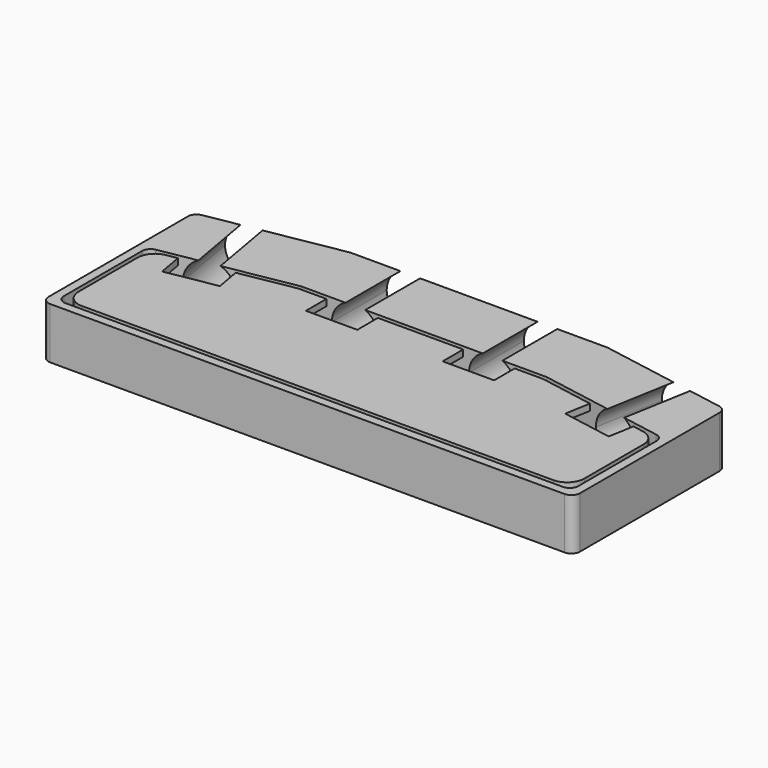
from build123d import *

# Parameters (mm, degrees)
F1_DEPTH  = 1
F2_DEPTH  = 6
F4_DEPTH  = 8
F6_DEPTH  = 8
F8_DEPTH  = 8
F9_START  = -8
F9_DEPTH  = 7
F10_START = -8
F10_DEPTH = 7
F11_START = -8
F11_DEPTH = 7
F12_START = -8
F12_DEPTH = 7
F14_START = -8
F14_DEPTH = 7
F15_START = -8
F15_DEPTH = 7
F16_R     = 1
F18_W     = 6
F18_H     = 2.5
F18_W_2   = 4
F18_H_2   = 4
F19_DEPTH = 0.75
F20_DEPTH = 4.5
F21_R     = 1


with BuildPart() as f1:
    # F0 (on Top) → F1 (new body)
    with BuildSketch(Plane.XY):
        Polygon((-31, 9.6787683087), (-31, 1.5553554136), (-30, 1.7316823943), (-14.3000906918, 4.5), (0, 4.5), (14.3000906918, 4.5), (30, 1.7316823943), (31, 1.5553554136), (31, 9.6787683087), (15, 12.5), (0, 12.5), (-15, 12.5), align=None)
        Polygon((-31, 1.5553554136), (-31, -12.5), (31, -12.5), (31, 1.5553554136), (30, 1.7316823943), (30, -11.5), (-30, -11.5), (-30, 1.7316823943), align=None)
        Polygon((-14.3000906918, 4.5), (-30, 1.7316823943), (-30, -11.5), (30, -11.5), (30, 1.7316823943), (14.3000906918, 4.5), (0, 4.5), align=None)
    extrude(amount=F1_DEPTH)

    # F0 (on Top) → F2 (join)
    with BuildSketch(Plane.XY):
        Polygon((-31, 9.6787683087), (-31, 1.5553554136), (-30, 1.7316823943), (-14.3000906918, 4.5), (0, 4.5), (14.3000906918, 4.5), (30, 1.7316823943), (31, 1.5553554136), (31, 9.6787683087), (15, 12.5), (0, 12.5), (-15, 12.5), align=None)
        Polygon((-31, 1.5553554136), (-31, -12.5), (31, -12.5), (31, 1.5553554136), (30, 1.7316823943), (30, -11.5), (-30, -11.5), (-30, 1.7316823943), align=None)
    extrude(amount=F2_DEPTH)

    # F3 (on face) → F4 (cut)
    with BuildSketch(Plane(origin=(0, 12.5, 0), x_dir=(-1, 0, 0), z_dir=(0, 1, 0))):
        with BuildLine():
            ThreePointArc((-9.1456439237, 6), (-9.4852574204, 1.185586382), (-5.25, 3.5))
            ThreePointArc((-5.25, 3.5), (-5.685586382, 4.9852574204), (-6.8543560763, 6))
            Line((-6.8543560763, 6), (-9.1456439237, 6))
        make_face()
        with BuildLine():
            Line((9.1456439237, 6), (6.8543560763, 6))
            ThreePointArc((6.8543560763, 6), (6.5147425796, 1.185586382), (10.75, 3.5))
            ThreePointArc((10.75, 3.5), (10.314413618, 4.9852574204), (9.1456439237, 6))
        make_face()
        with BuildLine():
            ThreePointArc((9.1456439237, 6), (8, 6.25), (6.8543560763, 6))
            Line((6.8543560763, 6), (9.1456439237, 6))
        make_face()
    extrude(amount=-F4_DEPTH, mode=Mode.SUBTRACT)

    # F5 (on face) → F6 (cut)
    with BuildSketch(Plane(origin=(2.5899312399, 14.6882299549, 0), x_dir=(-0.984807753, 0.1736481777, 0), z_dir=(0.1736481777, 0.984807753, 0))):
        with BuildLine():
            Line((-23.9939837883, 6), (-21.7026959408, 6))
            ThreePointArc((-21.7026959408, 6), (-22.8483398645, 6.25), (-23.9939837883, 6))
        make_face()
        with BuildLine():
            ThreePointArc((-23.9939837883, 6), (-24.3335972849, 1.185586382), (-20.0983398645, 3.5))
            ThreePointArc((-20.0983398645, 3.5), (-20.5339262465, 4.9852574204), (-21.7026959408, 6))
            Line((-21.7026959408, 6), (-23.9939837883, 6))
        make_face()
    extrude(amount=-F6_DEPTH, mode=Mode.SUBTRACT)

    # F7 (on face) → F8 (cut)
    with BuildSketch(Plane(origin=(-2.5899312399, 14.6882299549, 0), x_dir=(-0.984807753, -0.1736481777, 0), z_dir=(-0.1736481777, 0.984807753, 0))):
        with BuildLine():
            ThreePointArc((21.7026959408, 6), (21.3630824441, 1.185586382), (25.5983398645, 3.5))
            ThreePointArc((25.5983398645, 3.5), (25.1627534825, 4.9852574204), (23.9939837883, 6))
            Line((23.9939837883, 6), (21.7026959408, 6))
        make_face()
    extrude(amount=-F8_DEPTH, mode=Mode.SUBTRACT)

    # F5 (on face) → F12 (cut)
    with BuildSketch(Plane(origin=(2.5899312399, 14.6882299549, 0), x_dir=(-0.984807753, 0.1736481777, 0), z_dir=(0.1736481777, 0.984807753, 0)).offset(F12_START)):
        with BuildLine():
            ThreePointArc((-21.7026959408, 6), (-20.5339262465, 4.9852574204), (-20.0983398645, 3.5))
            ThreePointArc((-20.0983398645, 3.5), (-24.3335972849, 1.185586382), (-23.9939837883, 6))
            Line((-23.9939837883, 6), (-25.2258385501, 6))
            ThreePointArc((-25.2258385501, 6), (-24.2085107241, 0.3294424414), (-19.3983398645, 3.5))
            ThreePointArc((-19.3983398645, 3.5), (-19.6777823059, 4.8601708596), (-20.4708411789, 6))
            Line((-20.4708411789, 6), (-21.7026959408, 6))
        make_face()
        with BuildLine():
            ThreePointArc((-23.9939837883, 6), (-24.3335972849, 1.185586382), (-20.0983398645, 3.5))
            ThreePointArc((-20.0983398645, 3.5), (-20.5339262465, 4.9852574204), (-21.7026959408, 6))
            Line((-21.7026959408, 6), (-23.9939837883, 6))
        make_face()
    extrude(amount=-F12_DEPTH, mode=Mode.SUBTRACT)

    # F3 (on face) → F14 (cut)
    with BuildSketch(Plane(origin=(0, 12.5, 0), x_dir=(-1, 0, 0), z_dir=(0, 1, 0)).offset(F14_START)):
        with BuildLine():
            ThreePointArc((-6.8543560763, 6), (-5.685586382, 4.9852574204), (-5.25, 3.5))
            ThreePointArc((-5.25, 3.5), (-9.4852574204, 1.185586382), (-9.1456439237, 6))
            Line((-9.1456439237, 6), (-10.3774986856, 6))
            ThreePointArc((-10.3774986856, 6), (-9.3601708596, 0.3294424414), (-4.55, 3.5))
            ThreePointArc((-4.55, 3.5), (-4.8294424414, 4.8601708596), (-5.6225013144, 6))
            Line((-5.6225013144, 6), (-6.8543560763, 6))
        make_face()
        with BuildLine():
            ThreePointArc((-9.1456439237, 6), (-9.4852574204, 1.185586382), (-5.25, 3.5))
            ThreePointArc((-5.25, 3.5), (-5.685586382, 4.9852574204), (-6.8543560763, 6))
            Line((-6.8543560763, 6), (-9.1456439237, 6))
        make_face()
        with BuildLine():
            Line((6.8543560763, 6), (5.6225013144, 6))
            ThreePointArc((5.6225013144, 6), (6.6398291404, 0.3294424414), (11.45, 3.5))
            ThreePointArc((11.45, 3.5), (11.1705575586, 4.8601708596), (10.3774986856, 6))
            Line((10.3774986856, 6), (9.1456439237, 6))
            ThreePointArc((9.1456439237, 6), (10.314413618, 4.9852574204), (10.75, 3.5))
            ThreePointArc((10.75, 3.5), (6.5147425796, 1.185586382), (6.8543560763, 6))
        make_face()
        with BuildLine():
            Line((9.1456439237, 6), (6.8543560763, 6))
            ThreePointArc((6.8543560763, 6), (6.5147425796, 1.185586382), (10.75, 3.5))
            ThreePointArc((10.75, 3.5), (10.314413618, 4.9852574204), (9.1456439237, 6))
        make_face()
    extrude(amount=-F14_DEPTH, mode=Mode.SUBTRACT)

    # F7 (on face) → F15 (cut)
    with BuildSketch(Plane(origin=(-2.5899312399, 14.6882299549, 0), x_dir=(-0.984807753, -0.1736481777, 0), z_dir=(-0.1736481777, 0.984807753, 0)).offset(F15_START)):
        with BuildLine():
            ThreePointArc((23.9939837883, 6), (25.1627534825, 4.9852574204), (25.5983398645, 3.5))
            ThreePointArc((25.5983398645, 3.5), (21.3630824441, 1.185586382), (21.7026959408, 6))
            Line((21.7026959408, 6), (20.4708411789, 6))
            ThreePointArc((20.4708411789, 6), (21.4881690049, 0.3294424414), (26.2983398645, 3.5))
            ThreePointArc((26.2983398645, 3.5), (26.0188974232, 4.8601708596), (25.2258385501, 6))
            Line((25.2258385501, 6), (23.9939837883, 6))
        make_face()
        with BuildLine():
            ThreePointArc((21.7026959408, 6), (21.3630824441, 1.185586382), (25.5983398645, 3.5))
            ThreePointArc((25.5983398645, 3.5), (25.1627534825, 4.9852574204), (23.9939837883, 6))
            Line((23.9939837883, 6), (21.7026959408, 6))
        make_face()
    extrude(amount=-F15_DEPTH, mode=Mode.SUBTRACT)

    # F16
    f16_edges = [f1.edges().sort_by_distance(p)[0] for p in [
        (31, 9.678768, 3),
        (-31, 9.678768, 3),
        (-31, -12.5, 3),
        (-30, -11.5, 3.5),
        (30, -11.5, 3.5),
        (31, -12.5, 3),
        (30, 1.731682, 3.5),
        (-30, 1.731682, 3.5),
    ]]
    fillet(f16_edges, radius=F16_R)


with BuildPart() as f9:
    # F5 (on face) → F9 (new body)
    with BuildSketch(Plane(origin=(2.5899312399, 14.6882299549, 0), x_dir=(-0.984807753, 0.1736481777, 0), z_dir=(0.1736481777, 0.984807753, 0)).offset(F9_START)):
        with BuildLine():
            Line((-23.9939837883, 6), (-21.7026959408, 6))
            ThreePointArc((-21.7026959408, 6), (-22.8483398645, 6.25), (-23.9939837883, 6))
        make_face()
        with BuildLine():
            ThreePointArc((-23.9939837883, 6), (-22.8483398645, 6.25), (-21.7026959408, 6))
            Line((-21.7026959408, 6), (-20.4708411789, 6))
            ThreePointArc((-20.4708411789, 6), (-22.8483398645, 6.95), (-25.2258385501, 6))
            Line((-25.2258385501, 6), (-23.9939837883, 6))
        make_face()
    extrude(amount=-F9_DEPTH)


with BuildPart() as f10:
    # F3 (on face) → F10 (new body)
    with BuildSketch(Plane(origin=(0, 12.5, 0), x_dir=(-1, 0, 0), z_dir=(0, 1, 0)).offset(F10_START)):
        with BuildLine():
            ThreePointArc((-6.8543560763, 6), (-5.685586382, 4.9852574204), (-5.25, 3.5))
            ThreePointArc((-5.25, 3.5), (-9.4852574204, 1.185586382), (-9.1456439237, 6))
            Line((-9.1456439237, 6), (-10.3774986856, 6))
            ThreePointArc((-10.3774986856, 6), (-9.3601708596, 0.3294424414), (-4.55, 3.5))
            ThreePointArc((-4.55, 3.5), (-4.8294424414, 4.8601708596), (-5.6225013144, 6))
            Line((-5.6225013144, 6), (-6.8543560763, 6))
        make_face()
        with BuildLine():
            ThreePointArc((-9.1456439237, 6), (-9.4852574204, 1.185586382), (-5.25, 3.5))
            ThreePointArc((-5.25, 3.5), (-5.685586382, 4.9852574204), (-6.8543560763, 6))
            Line((-6.8543560763, 6), (-9.1456439237, 6))
        make_face()
    extrude(amount=-F10_DEPTH)


with BuildPart() as f10b:
    # F3 (on face) → F10, piece 2 (new body)
    with BuildSketch(Plane(origin=(0, 12.5, 0), x_dir=(-1, 0, 0), z_dir=(0, 1, 0)).offset(F10_START)):
        with BuildLine():
            ThreePointArc((10.3774986856, 6), (8, 6.95), (5.6225013144, 6))
            Line((5.6225013144, 6), (6.8543560763, 6))
            ThreePointArc((6.8543560763, 6), (8, 6.25), (9.1456439237, 6))
            Line((9.1456439237, 6), (10.3774986856, 6))
        make_face()
        with BuildLine():
            ThreePointArc((9.1456439237, 6), (8, 6.25), (6.8543560763, 6))
            Line((6.8543560763, 6), (9.1456439237, 6))
        make_face()
    extrude(amount=-F10_DEPTH)


with BuildPart() as f11:
    # F7 (on face) → F11 (new body)
    with BuildSketch(Plane(origin=(-2.5899312399, 14.6882299549, 0), x_dir=(-0.984807753, -0.1736481777, 0), z_dir=(-0.1736481777, 0.984807753, 0)).offset(F11_START)):
        with BuildLine():
            ThreePointArc((23.9939837883, 6), (25.1627534825, 4.9852574204), (25.5983398645, 3.5))
            ThreePointArc((25.5983398645, 3.5), (21.3630824441, 1.185586382), (21.7026959408, 6))
            Line((21.7026959408, 6), (20.4708411789, 6))
            ThreePointArc((20.4708411789, 6), (21.4881690049, 0.3294424414), (26.2983398645, 3.5))
            ThreePointArc((26.2983398645, 3.5), (26.0188974232, 4.8601708596), (25.2258385501, 6))
            Line((25.2258385501, 6), (23.9939837883, 6))
        make_face()
        with BuildLine():
            ThreePointArc((21.7026959408, 6), (21.3630824441, 1.185586382), (25.5983398645, 3.5))
            ThreePointArc((25.5983398645, 3.5), (25.1627534825, 4.9852574204), (23.9939837883, 6))
            Line((23.9939837883, 6), (21.7026959408, 6))
        make_face()
    extrude(amount=-F11_DEPTH)


with BuildPart() as f19:
    # F18 (on offset) → F19 (new body)
    with BuildSketch(Plane.XY.offset(6)):
        with BuildLine():
            ThreePointArc((-29.5, -9), (-28.9142135624, -10.4142135624), (-27.5, -11))
            Line((-27.5, -11), (-25, -11))
            Line((-25, -11), (-29.5, -6.5))
            Line((-29.5, -6.5), (-29.5, -9))
        make_face()
        with BuildLine():
            Line((-29.5, -6.5), (-25, -11))
            Line((-25, -11), (25, -11))
            Line((25, -11), (29.5, -6.5))
            Line((29.5, -6.5), (29.5, -0.3660666837))
            ThreePointArc((29.5, -0.3660666837), (29.0320888862, 0.9195085357), (27.8472963553, 1.6035488224))
            Line((27.8472963553, 1.6035488224), (26.5664432727, 1.8293977792))
            Line((26.5664432727, 1.8293977792), (26.0454987397, -1.1250254799))
            Line((26.0454987397, -1.1250254799), (20.1366522216, -0.0831364139))
            Line((20.1366522216, -0.0831364139), (20.6575967546, 2.8712868452))
            Line((20.6575967546, 2.8712868452), (14.25634636, 4))
            Line((14.25634636, 4), (10.9774986856, 4))
            Line((10.9774986856, 4), (10.9774986856, 1))
            Line((10.9774986856, 1), (4.9774986856, 1))
            Line((4.9774986856, 1), (4.9774986856, 4))
            Line((4.9774986856, 4), (-4.9774986856, 4))
            Line((-4.9774986856, 4), (-4.9774986856, 1))
            Line((-4.9774986856, 1), (-10.9774986856, 1))
            Line((-10.9774986856, 1), (-10.9774986856, 4))
            Line((-10.9774986856, 4), (-14.25634636, 4))
            Line((-14.25634636, 4), (-20.6575967546, 2.8712868452))
            Line((-20.6575967546, 2.8712868452), (-20.1366522216, -0.0831364139))
            Line((-20.1366522216, -0.0831364139), (-26.0454987397, -1.1250254799))
            Line((-26.0454987397, -1.1250254799), (-26.5664432727, 1.8293977792))
            Line((-26.5664432727, 1.8293977792), (-27.8472963553, 1.6035488224))
            ThreePointArc((-27.8472963553, 1.6035488224), (-29.0320888862, 0.9195085357), (-29.5, -0.3660666837))
            Line((-29.5, -0.3660666837), (-29.5, -6.5))
        make_face()
        with Locations((0, -6.75)):
            Rectangle(F18_W, F18_H, mode=Mode.SUBTRACT)
        with Locations((-15, 0)):
            Rectangle(F18_W_2, F18_H_2, mode=Mode.SUBTRACT)
        with Locations((15, 0)):
            Rectangle(F18_W_2, F18_H_2, mode=Mode.SUBTRACT)
        with BuildLine():
            Line((29.5, -6.5), (25, -11))
            Line((25, -11), (27.5, -11))
            ThreePointArc((27.5, -11), (28.9142135624, -10.4142135624), (29.5, -9))
            Line((29.5, -9), (29.5, -6.5))
        make_face()
        with Locations((-15, 0)):
            Rectangle(F18_W_2, F18_H_2)
        with Locations((0, -6.75)):
            Rectangle(F18_W, F18_H)
        with Locations((15, 0)):
            Rectangle(F18_W_2, F18_H_2)
    extrude(amount=-F19_DEPTH)

    # F18 (on offset) → F20 (join)
    with BuildSketch(Plane.XY.offset(6)):
        with Locations((0, -6.75)):
            Rectangle(F18_W, F18_H)
        with Locations((-15, 0)):
            Rectangle(F18_W_2, F18_H_2)
        with BuildLine():
            ThreePointArc((-29.5, -9), (-28.9142135624, -10.4142135624), (-27.5, -11))
            Line((-27.5, -11), (-25, -11))
            Line((-25, -11), (-29.5, -6.5))
            Line((-29.5, -6.5), (-29.5, -9))
        make_face()
        with Locations((15, 0)):
            Rectangle(F18_W_2, F18_H_2)
        with BuildLine():
            Line((29.5, -6.5), (25, -11))
            Line((25, -11), (27.5, -11))
            ThreePointArc((27.5, -11), (28.9142135624, -10.4142135624), (29.5, -9))
            Line((29.5, -9), (29.5, -6.5))
        make_face()
    extrude(amount=-F20_DEPTH)

    # F21
    f21_edges = [f19.edges().sort_by_distance(p)[0] for p in [
        (0, -8, 5.25),
        (3, -6.75, 5.25),
        (-3, -6.75, 5.25),
        (0, -5.5, 5.25),
        (-15, -2, 5.25),
        (-17, 0, 5.25),
        (-15, 2, 5.25),
        (-13, 0, 5.25),
        (-27.25, -8.75, 5.25),
        (15, -2, 5.25),
        (13, 0, 5.25),
        (27.25, -8.75, 5.25),
        (17, 0, 5.25),
        (15, 2, 5.25),
    ]]
    fillet(f21_edges, radius=F21_R)


solid = Compound([f1.part, f19.part])
